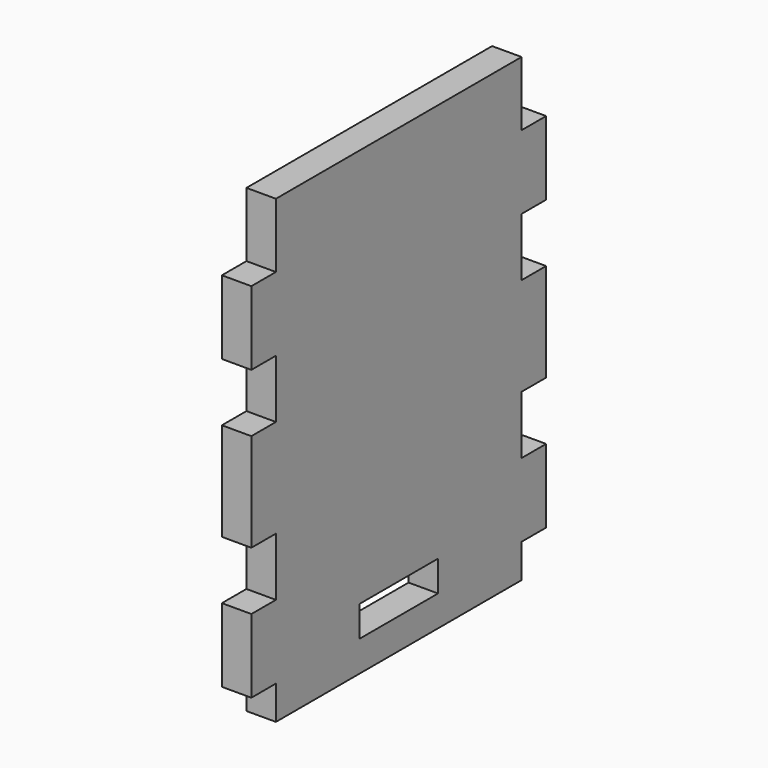
from build123d import *

# Parameters (mm, degrees)
F0_W     = 20.32
F0_H     = 6.35
F1_DEPTH = 6.096


with BuildPart() as f1:
    # F0 (on Right) → F1 (new body)
    with BuildSketch(Plane.YZ):
        Polygon((0, 6.985), (0, 0), (63.5, 0), (63.5, 6.985), (69.85, 6.985), (69.85, 22.225), (63.5, 22.225), (63.5, 34.29), (69.85, 34.29), (69.85, 44.45), (69.85, 54.61), (63.5, 54.61), (63.5, 66.675), (69.85, 66.675), (69.85, 81.915), (63.5, 81.915), (63.5, 95.25), (0, 95.25), (0, 81.915), (-6.35, 81.915), (-6.35, 66.675), (0, 66.675), (0, 54.61), (-6.35, 54.61), (-6.35, 44.45), (-6.35, 34.29), (0, 34.29), (0, 22.225), (-6.35, 22.225), (-6.35, 6.985), align=None)
        with Locations((31.75, 9.525)):
            Rectangle(F0_W, F0_H, mode=Mode.SUBTRACT)
    extrude(amount=F1_DEPTH)


solid = f1.part
